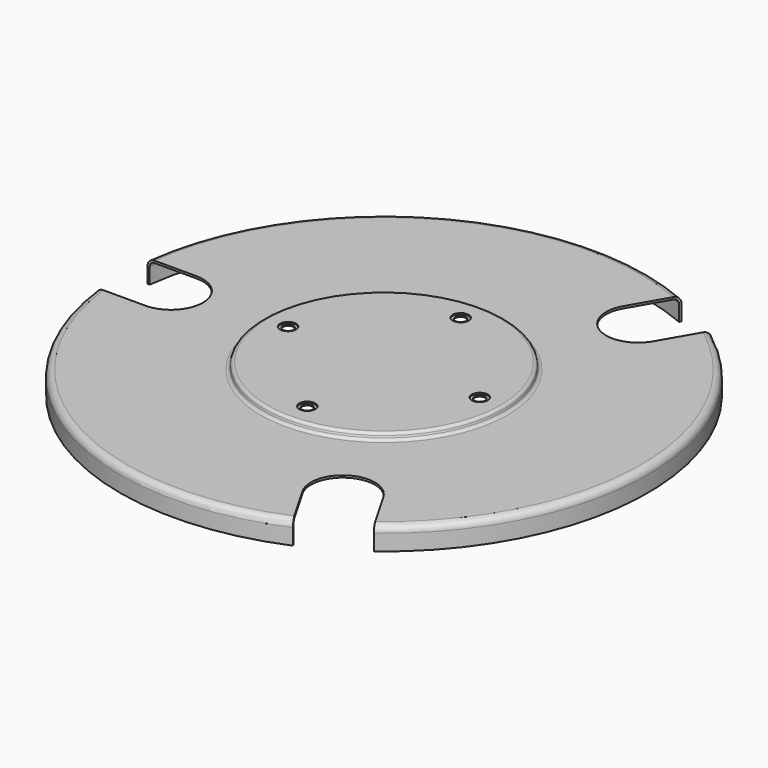
from build123d import *

# Parameters (mm, degrees)
F4_D           = 2.54
F4_CBORE_D     = 3.81
F4_CBORE_DEPTH = 0.254
F6_DEPTH       = 12.7


with BuildPart() as f2:
    # F0 (on Front) → F2 (revolve)
    with BuildSketch(Plane.XZ):
        with BuildLine():
            Line((61.321372, 34.233822), (29.43703, 34.233822))
            ThreePointArc((29.43703, 34.233822), (28.970104, 34.393639), (28.699038, 34.806052))
            Line((28.699038, 34.806052), (28.582598, 35.258874))
            ThreePointArc((28.582598, 35.258874), (28.311532, 35.671288), (27.844606, 35.831105))
            Line((27.844606, 35.831105), (0, 35.831105))
            Line((0, 35.831105), (0, 35.323106))
            Line((0, 35.323106), (27.844606, 35.323106))
            ThreePointArc((27.844606, 35.323106), (28.000249, 35.269833), (28.090604, 35.132362))
            Line((28.090604, 35.132362), (28.207044, 34.67954))
            ThreePointArc((28.207044, 34.67954), (28.65882, 33.992184), (29.43703, 33.725823))
            Line((29.43703, 33.725823), (61.321372, 33.725823))
            ThreePointArc((61.321372, 33.725823), (62.102577, 33.402237), (62.426163, 32.621031))
            Line((62.426163, 32.621031), (62.426163, 28.8122))
            Line((62.426163, 28.8122), (62.934162, 28.8122))
            Line((62.934162, 28.8122), (62.934162, 32.621031))
            ThreePointArc((62.934162, 32.621031), (62.461787, 33.761446), (61.321372, 34.233822))
        make_face()
    revolve(axis=Axis((0, 0, 53.538602), (0, 0, 1)))

    # F4 (through all)
    with Locations(Plane.XY.offset(35.831105)):
        with Locations((0, 22.86), (-22.86, 0), (0, -22.86), (22.86, 0)):
            CounterBoreHole(F4_D / 2, F4_CBORE_D / 2, F4_CBORE_DEPTH)

    # F5 (on face) → F6 (cut, symmetric)
    with BuildSketch(Plane.XY.offset(34.233822)):
        with BuildLine():
            Line((-77.920031, 0), (-61.321372, 0))
            ThreePointArc((-61.321372, 0), (-61.202435, 3.817404), (-60.846086, 7.62))
            Line((-60.846086, 7.62), (-77.920031, 7.62))
            Line((-77.920031, 7.62), (-77.920031, 0))
        make_face()
        with BuildLine():
            Line((-77.920031, -7.62), (-60.846086, -7.62))
            ThreePointArc((-60.846086, -7.62), (-61.202435, -3.817404), (-61.321372, 0))
            Line((-61.321372, 0), (-77.920031, 0))
            Line((-77.920031, 0), (-77.920031, -7.62))
        make_face()
        with BuildLine():
            Line((-60.846086, -7.62), (-50.8, -7.62))
            ThreePointArc((-50.8, -7.62), (-45.411846, -5.388154), (-43.18, 0))
            Line((-43.18, 0), (-61.321372, 0))
            ThreePointArc((-61.321372, 0), (-61.202435, -3.817404), (-60.846086, -7.62))
        make_face()
        with BuildLine():
            Line((-61.321372, 0), (-43.18, 0))
            ThreePointArc((-43.18, 0), (-45.411846, 5.388154), (-50.8, 7.62))
            Line((-50.8, 7.62), (-60.846086, 7.62))
            ThreePointArc((-60.846086, 7.62), (-61.202435, 3.817404), (-61.321372, 0))
        make_face()
        with BuildLine():
            Line((32.360902, 71.290727), (23.82393, 56.504257))
            ThreePointArc((23.82393, 56.504257), (30.660686, 53.105866), (37.022157, 48.884257))
            Line((37.022157, 48.884257), (45.559129, 63.670727))
            Line((45.559129, 63.670727), (32.360902, 71.290727))
        make_face()
        with BuildLine():
            ThreePointArc((37.022157, 48.884257), (30.660686, 53.105866), (23.82393, 56.504257))
            Line((23.82393, 56.504257), (18.800886, 47.804091))
            ThreePointArc((18.800886, 47.804091), (21.59, 37.394977), (31.999114, 40.184091))
            Line((31.999114, 40.184091), (37.022157, 48.884257))
        make_face()
        with BuildLine():
            Line((18.800886, -47.804091), (23.82393, -56.504257))
            ThreePointArc((23.82393, -56.504257), (30.660686, -53.105866), (37.022157, -48.884257))
            Line((37.022157, -48.884257), (31.999114, -40.184091))
            ThreePointArc((31.999114, -40.184091), (21.59, -37.394977), (18.800886, -47.804091))
        make_face()
        with BuildLine():
            ThreePointArc((37.022157, -48.884257), (30.660686, -53.105866), (23.82393, -56.504257))
            Line((23.82393, -56.504257), (32.360902, -71.290727))
            Line((32.360902, -71.290727), (45.559129, -63.670727))
            Line((45.559129, -63.670727), (37.022157, -48.884257))
        make_face()
    extrude(amount=F6_DEPTH, both=True, mode=Mode.SUBTRACT)


solid = f2.part
